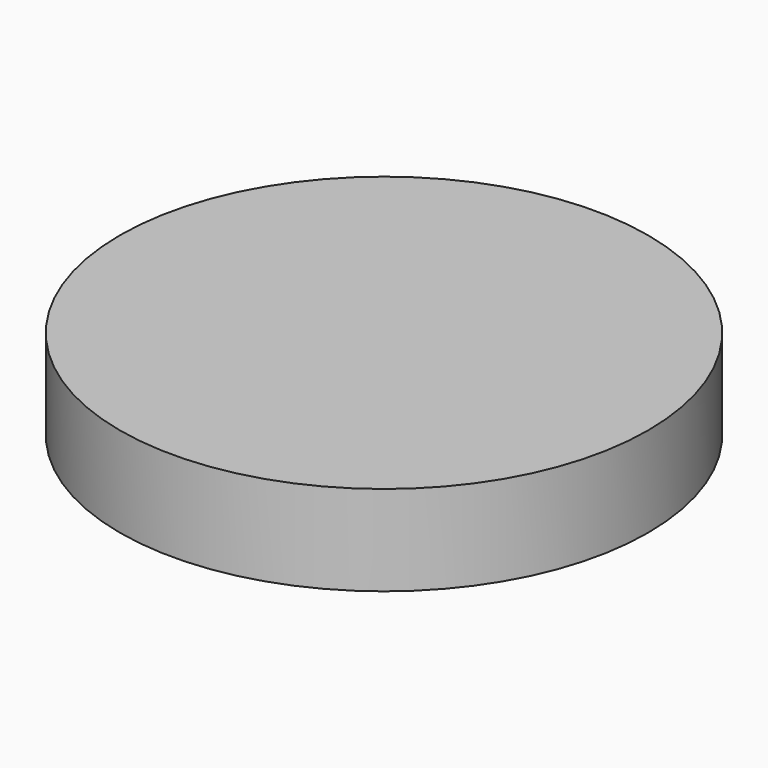
from build123d import *

# Parameters (mm, degrees)
F0_R     = 19.05
F0_R_2   = 4.75
F1_DEPTH = 6.5
F2_DEPTH = 4.5
F3_R     = 2
F4_DEPTH = 4.5
F5_R     = 1.1
F6_DEPTH = 5


with BuildPart() as f1:
    # F0 (on Top) → F1 (new body)
    with BuildSketch(Plane.XY):
        Circle(F0_R)
        Circle(F0_R_2, mode=Mode.SUBTRACT)
        Circle(F0_R_2)
    extrude(amount=F1_DEPTH)

    # F0 (on Top) → F2 (join)
    with BuildSketch(Plane.XY):
        Circle(F0_R_2)
    extrude(amount=-F2_DEPTH)

    # F3 (on face) → F4 (cut)
    with BuildSketch(Plane(origin=(0, 0, -4.5), x_dir=(1, 0, 0), z_dir=(0, 0, -1))):
        Circle(F3_R)
    extrude(amount=-F4_DEPTH, mode=Mode.SUBTRACT)

    # F5 (on Front) → F6 (cut)
    with BuildSketch(Plane.XZ):
        with Locations((0, -2.25)):
            Circle(F5_R)
    extrude(amount=F6_DEPTH, mode=Mode.SUBTRACT)


solid = f1.part
